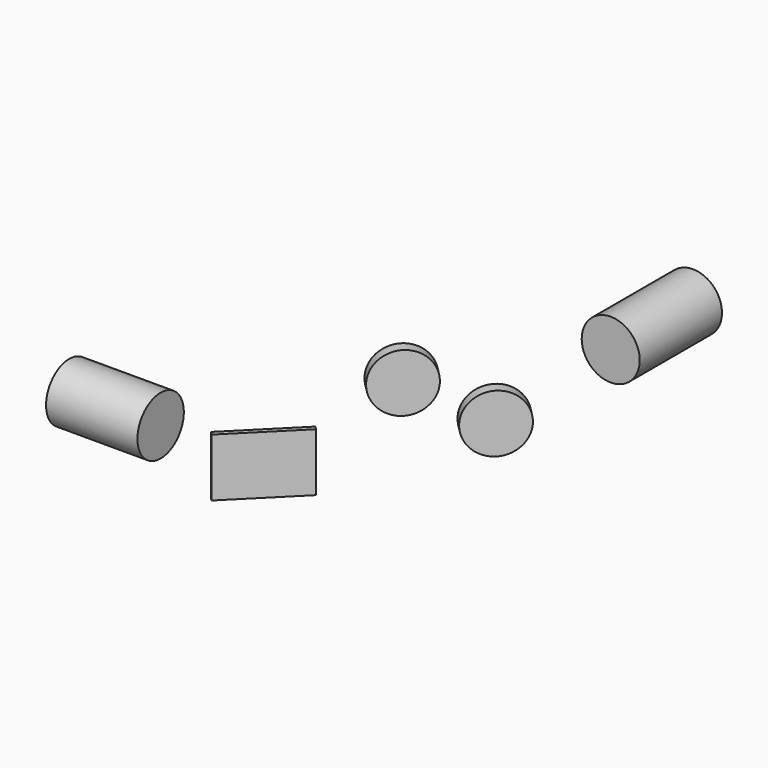
from build123d import *

# Parameters (mm, degrees)
F2_R      = 12.7
F3_DEPTH  = 5.08
F5_R      = 12.7
F6_DEPTH  = 5.08
F8_W      = 35.921025
F8_H      = 25.4
F9_DEPTH  = 1
F11_R     = 12.7
F12_DEPTH = 45
F14_R     = 12.7
F15_DEPTH = 40


with BuildPart() as f3:
    # F2 (on face) → F3 (new body)
    with BuildSketch(Plane(origin=(31.819805, -31.819805, 0), x_dir=(0.707107, 0.707107, 0), z_dir=(0.707107, -0.707107, 0))):
        with Locations((-45, 0)):
            Circle(F2_R)
    extrude(amount=F3_DEPTH)


with BuildPart() as f6:
    # F5 (on face) → F6 (new body)
    with BuildSketch(Plane(origin=(11.819805, -11.819805, 0), x_dir=(0.707107, 0.707107, 0), z_dir=(0.707107, -0.707107, 0))):
        with Locations((-73.284271, 0)):
            Circle(F5_R)
    extrude(amount=-F6_DEPTH)


with BuildPart() as f9:
    # F8 (on face) → F9 (new body, symmetric)
    with BuildSketch(Plane(origin=(50, -50, 0), x_dir=(0.707107, 0.707107, 0), z_dir=(0.707107, -0.707107, 0))):
        with Locations((-127.279221, 0)):
            Rectangle(F8_W, F8_H)
    extrude(amount=F9_DEPTH, both=True)


with BuildPart() as f12:
    # F11 (on face) → F12 (new body, through all)
    with BuildSketch(Plane(origin=(0, 0, 0), x_dir=(-1, 0, 0), z_dir=(0, 1, 0))):
        Circle(F11_R)
    extrude(amount=F12_DEPTH)


with BuildPart() as f15:
    # F14 (on face) → F15 (new body, through all)
    with BuildSketch(Plane.YZ.offset(-85)):
        with Locations((-140, 0)):
            Circle(F14_R)
    extrude(amount=-F15_DEPTH)


solid = Compound([f3.part, f6.part, f9.part, f12.part, f15.part])
